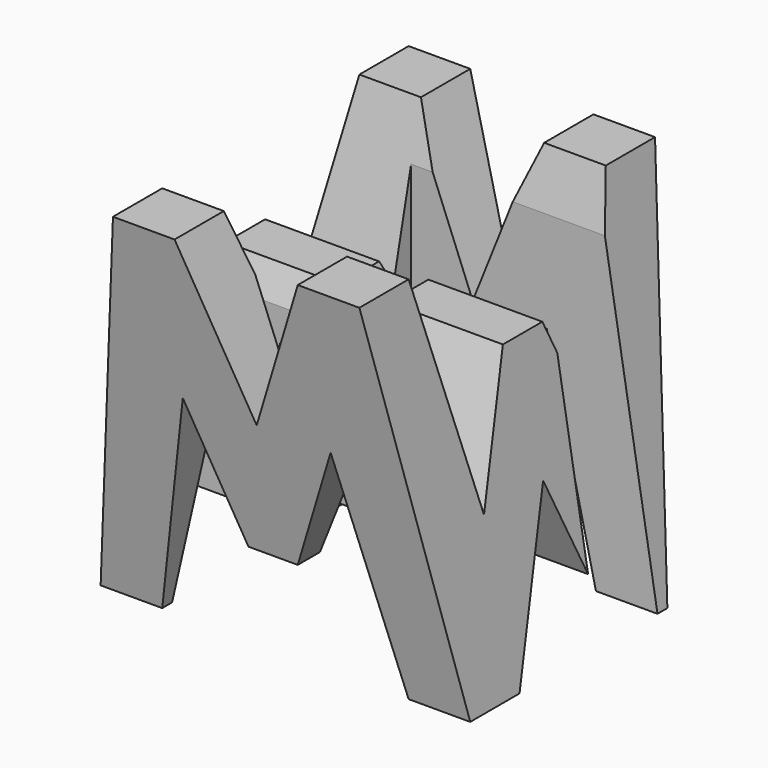
from build123d import *

# Parameters (mm, degrees)
F0_W      = 38.1
F0_H      = 38.1
F1_DEPTH  = 38.1
F6_DEPTH  = 38.1
F8_DEPTH  = 38.1
F9_W      = 25.4
F9_H      = 7.62
F10_DEPTH = 38.1


with BuildPart() as f1:
    # F0 (on Front) → F1 (new body)
    with BuildSketch(Plane.XZ):
        with Locations((19.05, 19.05)):
            Rectangle(F0_W, F0_H)
    extrude(amount=F1_DEPTH)

    # F5 (on offset) → F6 (cut)
    with BuildSketch(Plane.YZ.offset(38.1)):
        Polygon((-25.4, 0), (-12.7, 0), (-19.05, 15.875), align=None)
        Polygon((-11.43, 15.875), (-6.35, 38.1), (-31.75, 38.1), (-26.67, 15.875), (-21.59, 28.575), (-16.51, 28.575), align=None)
        Polygon((-31.75, 0), (-38.1, 38.1), (-38.1, 0), align=None)
        Polygon((-6.35, 0), (0, 0), (0, 38.1), align=None)
    extrude(amount=-F6_DEPTH, mode=Mode.SUBTRACT)

    # F7 (on offset) → F8 (cut)
    with BuildSketch(Plane.XZ.offset(38.1)):
        Polygon((11.43, 22.225), (6.35, 0), (31.75, 0), (26.67, 22.225), (21.59, 9.525), (16.51, 9.525), align=None)
        Polygon((25.4, 38.1), (12.7, 38.1), (19.05, 22.225), align=None)
        Polygon((0, 38.1), (0, 0), (6.35, 38.1), align=None)
        Polygon((31.75, 38.1), (38.1, 0), (38.1, 38.1), align=None)
    extrude(amount=-F8_DEPTH, mode=Mode.SUBTRACT)

    # F9 (on offset) → F10 (cut)
    with BuildSketch(Plane.XY.offset(38.1)):
        with Locations((25.4, -11.43)):
            Rectangle(F9_W, F9_H)
        with Locations((12.7, -26.67)):
            Rectangle(F9_W, F9_H)
    extrude(amount=-F10_DEPTH, mode=Mode.SUBTRACT)


solid = f1.part
